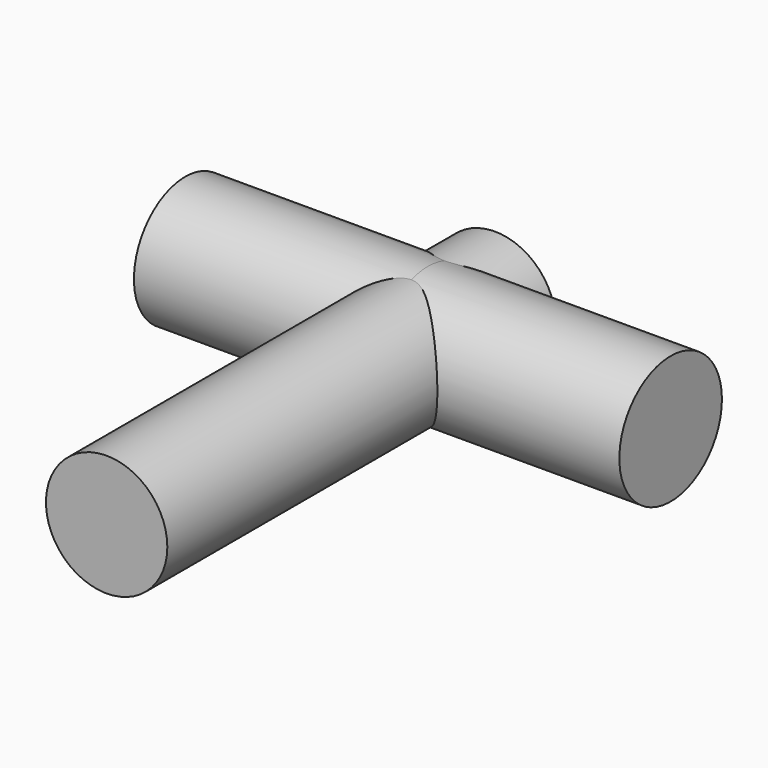
from build123d import *

# Parameters (mm, degrees)
F0_R          = 6.35
F1_DEPTH      = 50.8
F2_R          = 6.708201
F3_DEPTH      = 25.4
F3_DEPTH_BACK = 25.4


with BuildPart() as f1:
    # F0 (on Front) → F1 (new body)
    with BuildSketch(Plane.XZ):
        Circle(F0_R)
    extrude(amount=F1_DEPTH)

    # F2 (on Right) → F3 (join, two sides)
    with BuildSketch(Plane.YZ) as f3_sk:
        with Locations((-8.772769, 0)):
            Circle(F2_R)
    extrude(amount=F3_DEPTH)
    extrude(f3_sk.sketch, amount=-F3_DEPTH_BACK)


solid = f1.part
